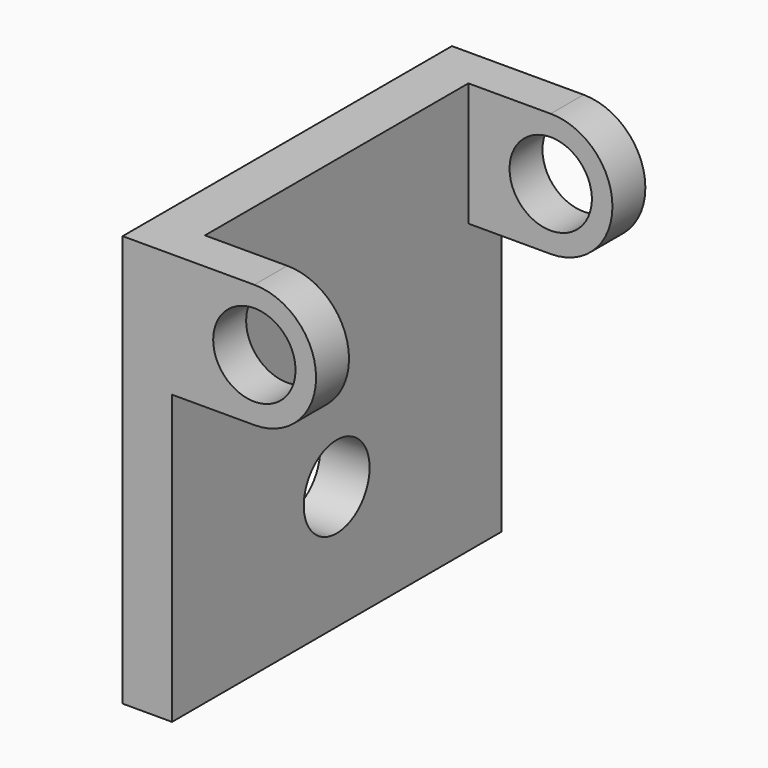
from build123d import *

# Parameters (mm, degrees)
F1_DEPTH = 10
F2_W     = 100
F2_H     = 100
F3_DEPTH = 12
F5_DEPTH = 10
F7_D     = 20
F9_D     = 20


with BuildPart() as f1:
    # F0 (on Front) → F1 (new body)
    with BuildSketch(Plane.XZ):
        with BuildLine():
            Line((0, 30), (0, 0))
            Line((0, 0), (20, 0))
            Line((20, 0), (20, 10))
            ThreePointArc((20, 10), (15, 15), (20, 20))
            Line((20, 20), (20, 30))
            Line((20, 30), (0, 30))
        make_face()
        with BuildLine():
            Line((20, 10), (20, 0))
            ThreePointArc((20, 0), (35, 15), (20, 30))
            Line((20, 30), (20, 20))
            ThreePointArc((20, 20), (23.535534, 18.535534), (25, 15))
            ThreePointArc((25, 15), (23.535534, 11.464466), (20, 10))
        make_face()
    extrude(amount=F1_DEPTH)

    # F2 (on Right) → F3 (join)
    with BuildSketch(Plane.YZ):
        with Locations((-50, -20)):
            Rectangle(F2_W, F2_H)
    extrude(amount=-F3_DEPTH)

    # F4 (on face) → F5 (join)
    with BuildSketch(Plane.XZ.offset(100)):
        with BuildLine():
            Line((0, 30), (0, 0))
            Line((0, 0), (20, 0))
            Line((20, 0), (20, 10))
            ThreePointArc((20, 10), (15, 15), (20, 20))
            Line((20, 20), (20, 30))
            Line((20, 30), (0, 30))
        make_face()
        with BuildLine():
            Line((20, 10), (20, 0))
            ThreePointArc((20, 0), (35, 15), (20, 30))
            Line((20, 30), (20, 20))
            ThreePointArc((20, 20), (23.535534, 18.535534), (25, 15))
            ThreePointArc((25, 15), (23.535534, 11.464466), (20, 10))
        make_face()
    extrude(amount=-F5_DEPTH)

    # F7 (through all)
    with Locations(Plane(origin=(-12, 0, 0), x_dir=(0, -1, 0), z_dir=(-1, 0, 0))):
        with Locations((50, -40)):
            Hole(F7_D / 2)

    # F9 (through all)
    with Locations(Plane.XZ.offset(100)):
        with Locations((20, 15)):
            Hole(F9_D / 2)


solid = f1.part
